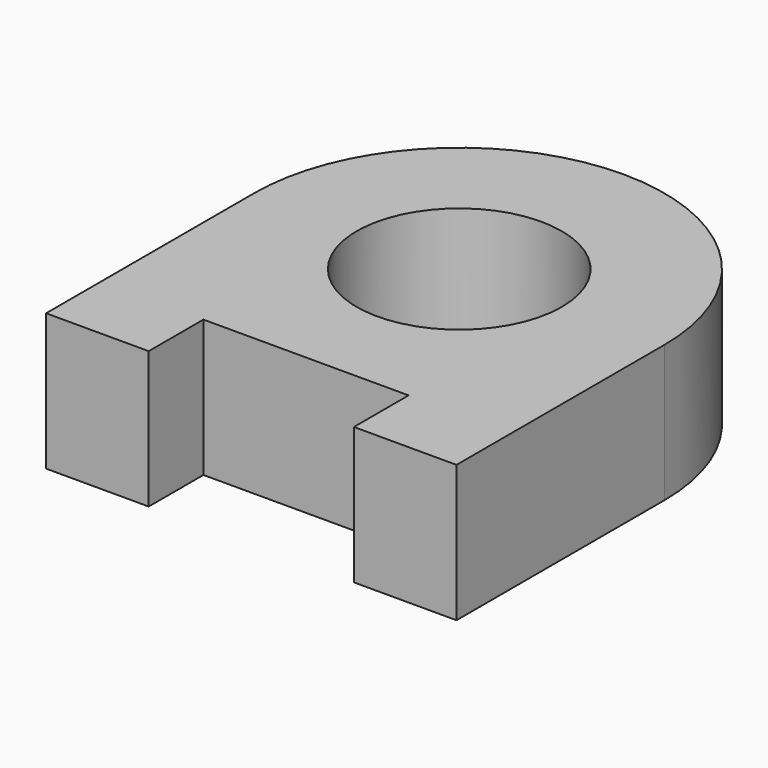
from build123d import *

# Parameters (mm, degrees)
F0_R     = 15
F1_DEPTH = 20


with BuildPart() as f1:
    # F0 (on Top) → F1 (new body)
    with BuildSketch(Plane.XY):
        with BuildLine():
            ThreePointArc((30, 0), (0, 30), (-30, 0))
            Line((-30, 0), (-30, -38))
            Line((-30, -38), (-15, -38))
            Line((-15, -38), (-15, -28))
            Line((-15, -28), (15, -28))
            Line((15, -28), (15, -38))
            Line((15, -38), (30, -38))
            Line((30, -38), (30, 0))
        make_face()
        Circle(F0_R, mode=Mode.SUBTRACT)
    extrude(amount=F1_DEPTH)


solid = f1.part
